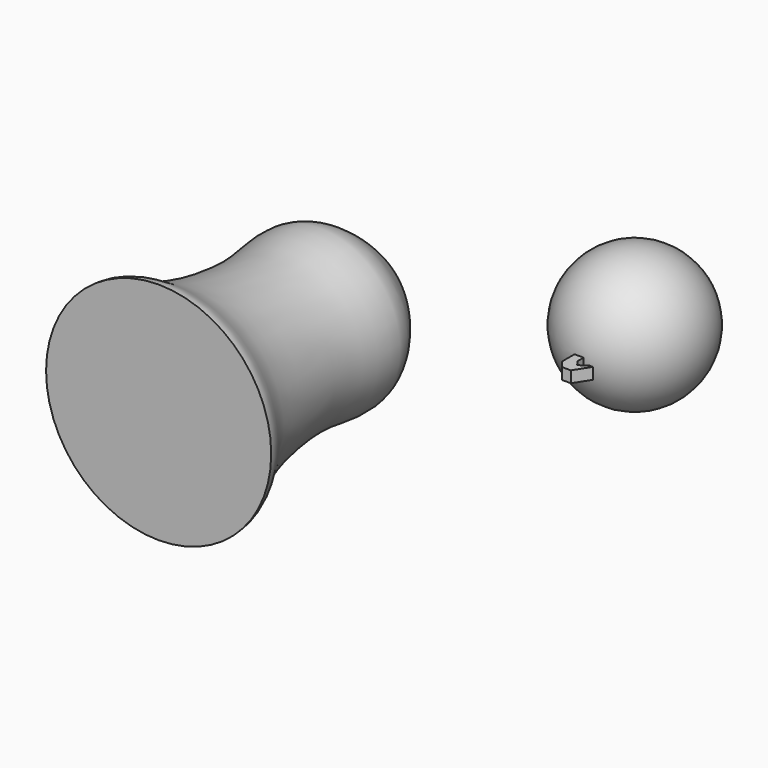
from build123d import *

# Parameters (mm, degrees)
F5_DEPTH = 5


with BuildPart() as f1:
    # F0 (on Top) → F1 (revolve)
    with BuildSketch(Plane.XY):
        with BuildLine():
            Line((0, 0), (0, 60))
            ThreePointArc((0, 60), (-30, 30), (0, 0))
        make_face()
    revolve(axis=Axis((0, 30, 0), (0, 1, 0)))


with BuildPart() as f3:
    # F2 (on Top) → F3 (revolve)
    with BuildSketch(Plane.XY):
        with BuildLine():
            add(Edge.make_bspline(
                [(-93.4838284843, 0), (-93.2206305008, -0.7167386774), (-92.9704505122, -1.3503838481), (-92.855458658, -1.9955373137)],
                knots=[0, 0, 0, 0, 0.0440746209, 0.0440746209, 0.0440746209, 0.0440746209], degree=3))
            add(Edge.make_bspline(
                [(-93.4838284843, 0), (-106.1081430657, -10.22211057), (-127.9947905136, -28.7274394842), (-116.997988979, -56.4534275759), (-126.9383677829, -110.8695795739), (-136.5148101472, -118.509018224), (-136.5568541885, -123.0003163218)],
                knots=[0, 0, 0, 0, 0.2819511732, 0.5116892163, 0.831774185, 1, 1, 1, 1], degree=3))
            Line((-136.5568541885, -123.0003163218), (-87.0360136032, -123.0003163218))
            Line((-87.0360136032, -123.0003163218), (-87.0360136032, -118.0003163218))
            Line((-87.0360136032, -118.0003163218), (-131.5148101472, -118.0003163218))
            add(Edge.make_bspline(
                [(-92.855458658, -3.4042052445), (-92.9480242126, -3.8893847513), (-94.9402164982, -9.1834897663), (-125.4011183599, -31.398104491), (-111.0193506664, -56.1968872739), (-120.5615350152, -110.9527235263), (-131.5148101472, -118.0003163218)],
                knots=[0.0750198482, 0.0750198482, 0.0750198482, 0.0750198482, 0.1052255853, 0.3814937719, 0.6332109555, 1, 1, 1, 1], degree=3))
            Line((-92.855458658, -3.4042052445), (-92.855458658, -1.9955373137))
        make_face()
    revolve(axis=Axis((-87.0360136032, -120.5003163218, 0), (0, -1, 0)))


with BuildPart() as f5:
    # F4 (on Top) → F5 (new body)
    with BuildSketch(Plane.XY):
        Polygon((1.5101295859, 0), (-2.4898704141, 0), (-2.4898704141, -7), (0, -10.1305822655), (4, -10.1305822655), (8.3058515345, -3.3882056397), (6.5101295859, -3.3882056397), (3.3101295859, -5.7882056397), (1.5101295859, -3.3882056397), align=None)
    extrude(amount=-F5_DEPTH)


solid = Compound([f1.part, f3.part, f5.part])
